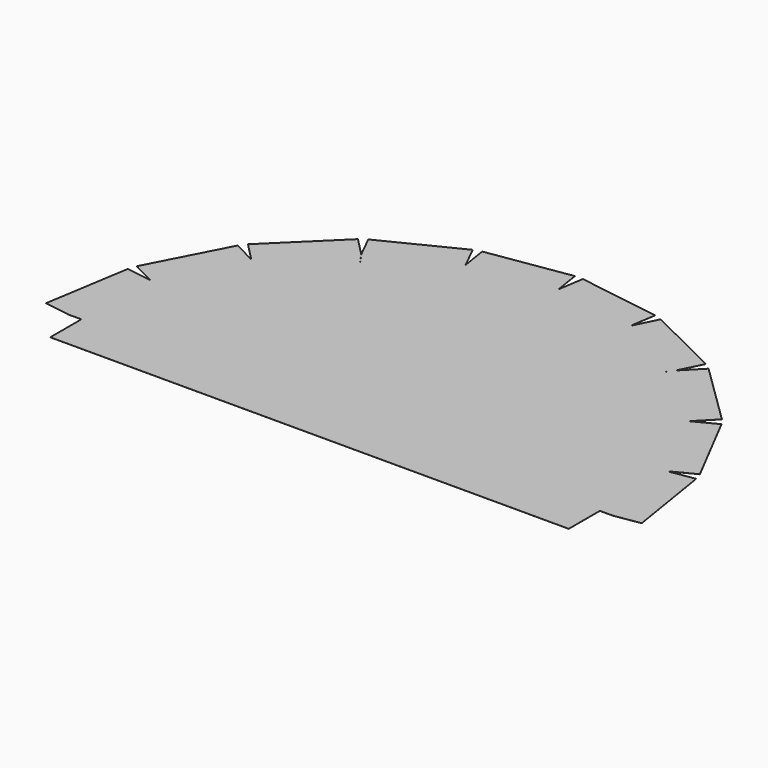
from build123d import *

# Parameters (mm, degrees)
F1_DEPTH = 0.0254


with BuildPart() as f1:
    # F0 (on Top) → F1 (new body)
    with BuildSketch(Plane.XY):
        Polygon((127, -19.05), (127, 0), (133.35, 0), (145.889368, 2.013519), (139.185473, 43.762609), (126.646105, 41.74909), (137.924692, 47.587197), (118.487056, 85.138589), (107.20847, 79.300482), (116.09226, 88.376179), (85.875258, 117.954237), (77.109284, 108.998901), (73.345945, 103.679181), (73.325208, 103.693848), (76.991468, 108.87854), (82.648062, 120.249245), (46.050092, 138.455669), (40.393497, 127.084963), (42.339996, 139.634909), (1.946498, 145.899946), (0, 133.35), (-1.946498, 145.899946), (-42.339996, 139.634909), (-40.393497, 127.084963), (-46.050092, 138.455669), (-82.648062, 120.249245), (-76.991468, 108.87854), (-73.325208, 103.693848), (-73.345945, 103.679181), (-77.109284, 108.998901), (-85.875258, 117.954237), (-116.09226, 88.376179), (-107.20847, 79.300482), (-118.487056, 85.138589), (-137.924692, 47.587197), (-126.646105, 41.74909), (-139.185473, 43.762609), (-145.889368, 2.013519), (-133.35, 0), (-127, 0), (-127, -19.05), align=None)
    extrude(amount=F1_DEPTH)


solid = f1.part
